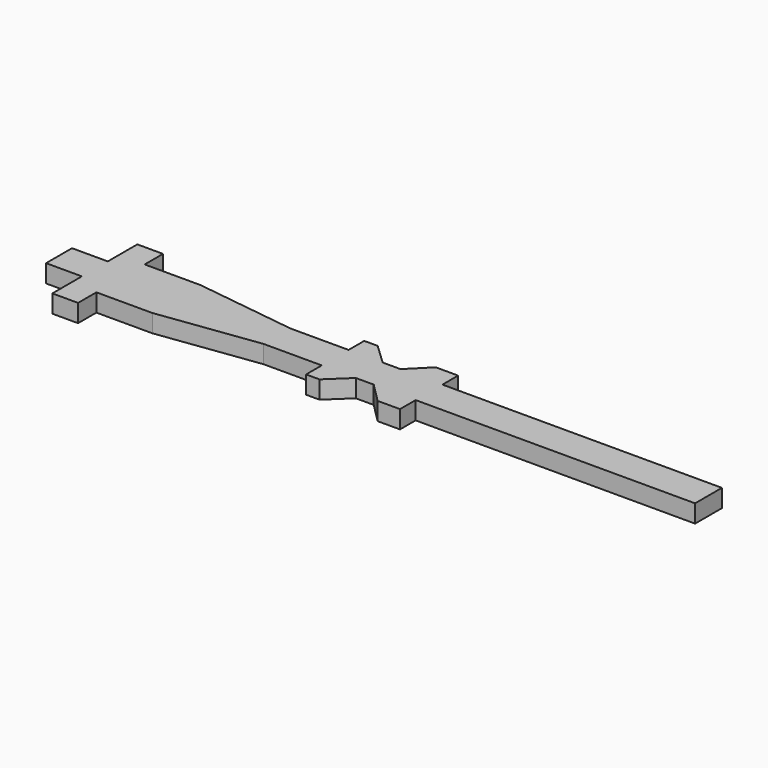
from build123d import *

# Parameters (mm, degrees)
F1_DEPTH = 1.6


with BuildPart() as f1:
    # F0 (on Top) → F1 (new body)
    with BuildSketch(Plane.XY):
        Polygon((0, -1.5), (0, 0), (0, 1.5), (-25, 1.5), (-25, 3.25), (-27, 3.25), (-28.75, 1.5), (-30.35, 1.5), (-32.2, 3.25), (-33.4, 3.25), (-33.4, 1.5), (-38.6, 1.5), (-47.6, 2.7), (-52.6, 2.7), (-52.6, 4.75), (-54.9, 4.75), (-54.9, 1.45), (-58.1, 1.45), (-58.1, 0), (-58.1, -1.45), (-54.9, -1.45), (-54.9, -4.75), (-52.6, -4.75), (-52.6, -2.7), (-47.6, -2.7), (-38.6, -1.5), (-33.4, -1.5), (-33.4, -3.25), (-32.2, -3.25), (-30.35, -1.5), (-28.75, -1.5), (-27, -3.25), (-25, -3.25), (-25, -1.5), align=None)
    extrude(amount=F1_DEPTH)


solid = f1.part
